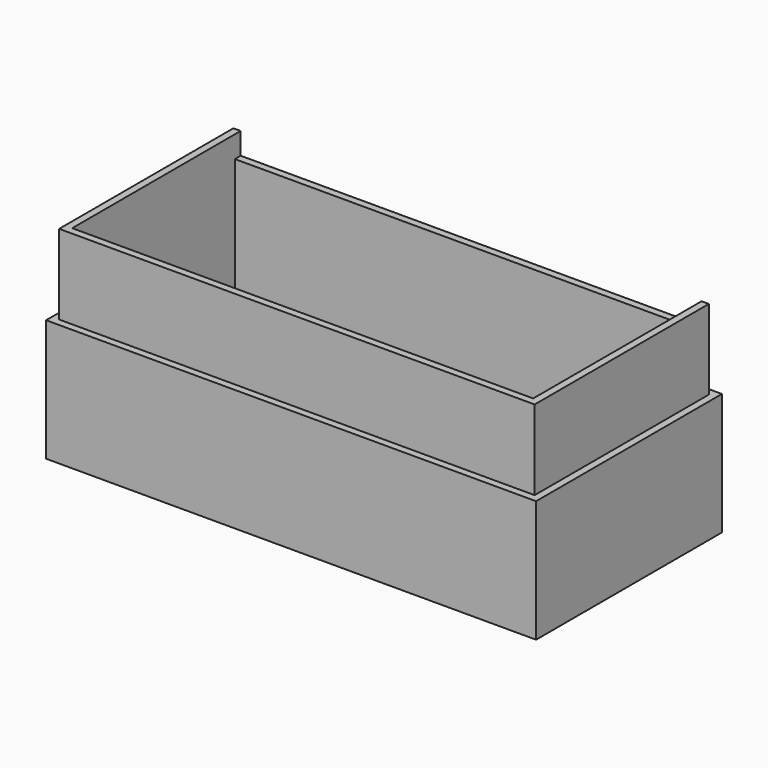
from build123d import *

# Parameters (mm, degrees)
F0_W     = 67.5
F0_H     = 32
F1_DEPTH = 1.5
F2_W     = 67.5
F2_H     = 32
F2_W_2   = 63.5
F2_H_2   = 28
F3_DEPTH = 26.3
F4_W     = 63.5
F4_H     = 2
F5_DEPTH = 3
F6_W     = 67.5
F6_H     = 32
F6_W_2   = 65.5
F6_H_2   = 30
F7_DEPTH = 11
F8_W     = 5
F8_H     = 1
F8_W_2   = 1
F8_H_2   = 5
F9_DEPTH = 4


with BuildPart() as f1:
    # F0 (on Top) → F1 (new body)
    with BuildSketch(Plane.XY):
        with Locations((33.75, 16)):
            Rectangle(F0_W, F0_H)
    extrude(amount=F1_DEPTH)

    # F2 (on face) → F3 (join)
    with BuildSketch(Plane.XY.offset(1.5)):
        with Locations((33.75, 16)):
            Rectangle(F2_W, F2_H)
        with Locations((33.75, 16)):
            Rectangle(F2_W_2, F2_H_2, mode=Mode.SUBTRACT)
    extrude(amount=F3_DEPTH)

    # F4 (on face) → F5 (cut)
    with BuildSketch(Plane.XY.offset(27.8)):
        with Locations((33.75, 31)):
            Rectangle(F4_W, F4_H)
    extrude(amount=-F5_DEPTH, mode=Mode.SUBTRACT)

    # F6 (on face) → F7 (cut)
    with BuildSketch(Plane.XY.offset(27.8)):
        with Locations((33.75, 16)):
            Rectangle(F6_W, F6_H)
        with Locations((33.75, 16)):
            Rectangle(F6_W_2, F6_H_2, mode=Mode.SUBTRACT)
    extrude(amount=-F7_DEPTH, mode=Mode.SUBTRACT)

    # F8 (on face) → F9 (join)
    with BuildSketch(Plane.XY.offset(1.5)):
        with Locations((63, 13.8)):
            Rectangle(F8_W, F8_H)
        with Locations((12.8, 27.5)):
            Rectangle(F8_W_2, F8_H_2)
        with Locations((12.8, 4.5)):
            Rectangle(F8_W_2, F8_H_2)
    extrude(amount=F9_DEPTH)


solid = f1.part
